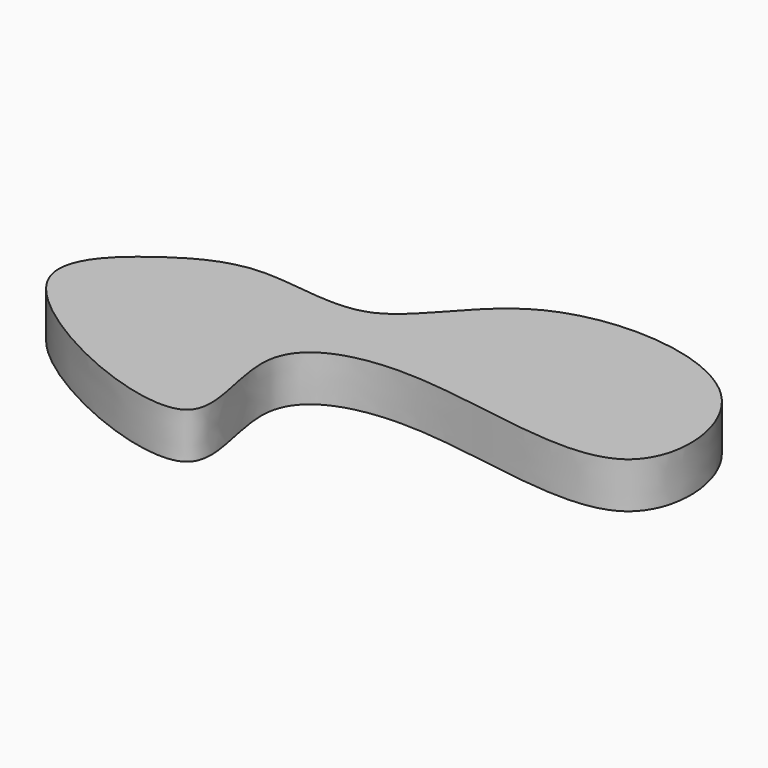
from build123d import *

# Parameters (mm, degrees)
F1_DEPTH = 16


with BuildPart() as f1:
    # F0 (on Top) → F1 (new body)
    with BuildSketch(Plane.XY):
        with BuildLine():
            add(Edge.make_bspline(
                [(0, 0), (-10.9199206203, -0.128345646), (-28.2419581895, -8.5746128233), (-67.0203563266, -44.4133069075), (57.5494287427, -101.337811353), (20.2875916733, -30.7465962075), (71.7274053556, -14.8641606357), (159.4154091524, -44.5636985292), (153.7552107632, 35.9708732669), (65.3682979715, 42.3108232461), (43.2883540067, -9.891140313), (12.0034997496, 0.1410813304), (0, 0)],
                knots=[0, 0, 0, 0, 0.07995692, 0.1614832977, 0.2936386406, 0.381532248, 0.4730777864, 0.598062593, 0.6943282291, 0.8146463428, 0.9121089885, 1, 1, 1, 1], degree=3))
        make_face()
    extrude(amount=F1_DEPTH)


solid = f1.part
